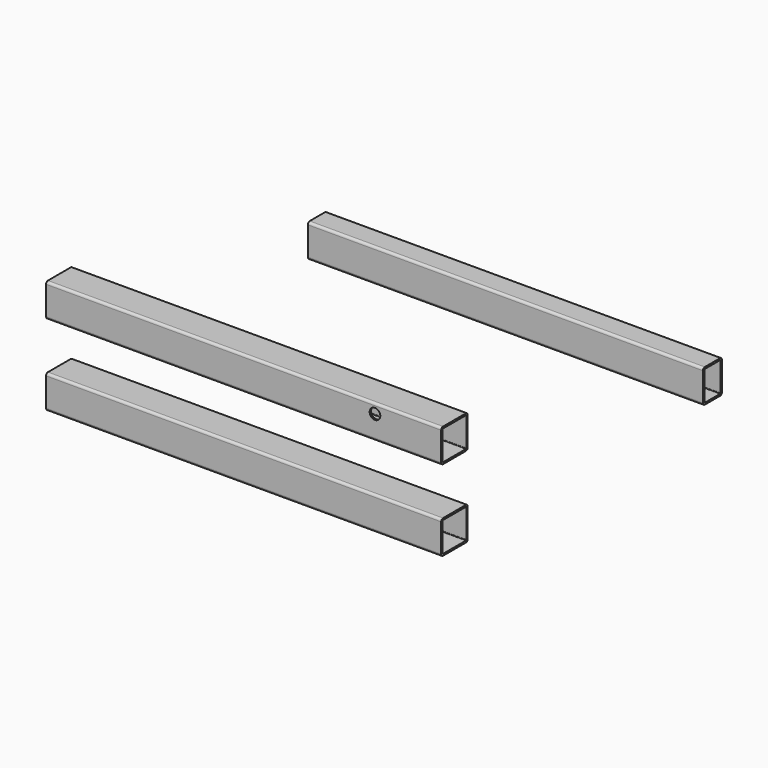
from build123d import *

# Parameters (mm, degrees)
F1_DEPTH = 1058.164
F3_DEPTH = 1058.164
F4_R     = 28.575
F5_DEPTH = 177.801
F7_DEPTH = 1058.164


with BuildPart() as f1:
    # F0 (on Right) → F1 (new body, symmetric)
    with BuildSketch(Plane.YZ):
        with BuildLine():
            ThreePointArc((-88.9, -76.2), (-85.180256, -85.180256), (-76.2, -88.9))
            Line((-76.2, -88.9), (76.2, -88.9))
            ThreePointArc((76.2, -88.9), (85.180256, -85.180256), (88.9, -76.2))
            Line((88.9, -76.2), (88.9, 76.2))
            ThreePointArc((88.9, 76.2), (85.180256, 85.180256), (76.2, 88.9))
            Line((76.2, 88.9), (-76.2, 88.9))
            ThreePointArc((-76.2, 88.9), (-85.180256, 85.180256), (-88.9, 76.2))
            Line((-88.9, 76.2), (-88.9, -76.2))
        make_face()
        with BuildLine():
            ThreePointArc((-79.375, 76.2), (-78.445064, 78.445064), (-76.2, 79.375))
            Line((-76.2, 79.375), (76.2, 79.375))
            ThreePointArc((76.2, 79.375), (78.445064, 78.445064), (79.375, 76.2))
            Line((79.375, 76.2), (79.375, -76.2))
            ThreePointArc((79.375, -76.2), (78.445064, -78.445064), (76.2, -79.375))
            Line((76.2, -79.375), (-76.2, -79.375))
            ThreePointArc((-76.2, -79.375), (-78.445064, -78.445064), (-79.375, -76.2))
            Line((-79.375, -76.2), (-79.375, 76.2))
        make_face(mode=Mode.SUBTRACT)
    extrude(amount=F1_DEPTH, both=True)


with BuildPart() as f3:
    # F2 (on Right) → F3 (new body, symmetric)
    with BuildSketch(Plane.YZ):
        with BuildLine():
            ThreePointArc((-88.9, 355.6), (-85.180256, 346.619744), (-76.2, 342.9))
            Line((-76.2, 342.9), (76.2, 342.9))
            ThreePointArc((76.2, 342.9), (85.180256, 346.619744), (88.9, 355.6))
            Line((88.9, 355.6), (88.9, 508))
            ThreePointArc((88.9, 508), (85.180256, 516.980256), (76.2, 520.7))
            Line((76.2, 520.7), (-76.2, 520.7))
            ThreePointArc((-76.2, 520.7), (-85.180256, 516.980256), (-88.9, 508))
            Line((-88.9, 508), (-88.9, 355.6))
        make_face()
        with BuildLine():
            ThreePointArc((-79.375, 508), (-78.445064, 510.245064), (-76.2, 511.175))
            Line((-76.2, 511.175), (76.2, 511.175))
            ThreePointArc((76.2, 511.175), (78.445064, 510.245064), (79.375, 508))
            Line((79.375, 508), (79.375, 355.6))
            ThreePointArc((79.375, 355.6), (78.445064, 353.354936), (76.2, 352.425))
            Line((76.2, 352.425), (-76.2, 352.425))
            ThreePointArc((-76.2, 352.425), (-78.445064, 353.354936), (-79.375, 355.6))
            Line((-79.375, 355.6), (-79.375, 508))
        make_face(mode=Mode.SUBTRACT)
    extrude(amount=F3_DEPTH, both=True)

    # F4 (on face) → F5 (cut, through all)
    with BuildSketch(Plane.XZ.offset(88.9)):
        with Locations((703.463733, 469.767064)):
            Circle(F4_R)
    extrude(amount=-F5_DEPTH, mode=Mode.SUBTRACT)


with BuildPart() as f7:
    # F6 (on Right) → F7 (new body, symmetric)
    with BuildSketch(Plane.YZ):
        with BuildLine():
            ThreePointArc((1663.7, -76.2), (1667.419744, -85.180256), (1676.4, -88.9))
            Line((1676.4, -88.9), (1778, -88.9))
            ThreePointArc((1778, -88.9), (1786.980256, -85.180256), (1790.7, -76.2))
            Line((1790.7, -76.2), (1790.7, 76.2))
            ThreePointArc((1790.7, 76.2), (1786.980256, 85.180256), (1778, 88.9))
            Line((1778, 88.9), (1676.4, 88.9))
            ThreePointArc((1676.4, 88.9), (1667.419744, 85.180256), (1663.7, 76.2))
            Line((1663.7, 76.2), (1663.7, -76.2))
        make_face()
        with BuildLine():
            ThreePointArc((1673.225, 76.2), (1674.154936, 78.445064), (1676.4, 79.375))
            Line((1676.4, 79.375), (1778, 79.375))
            ThreePointArc((1778, 79.375), (1780.245064, 78.445064), (1781.175, 76.2))
            Line((1781.175, 76.2), (1781.175, -76.2))
            ThreePointArc((1781.175, -76.2), (1780.245064, -78.445064), (1778, -79.375))
            Line((1778, -79.375), (1676.4, -79.375))
            ThreePointArc((1676.4, -79.375), (1674.154936, -78.445064), (1673.225, -76.2))
            Line((1673.225, -76.2), (1673.225, 76.2))
        make_face(mode=Mode.SUBTRACT)
    extrude(amount=F7_DEPTH, both=True)


solid = Compound([f1.part, f3.part, f7.part])
